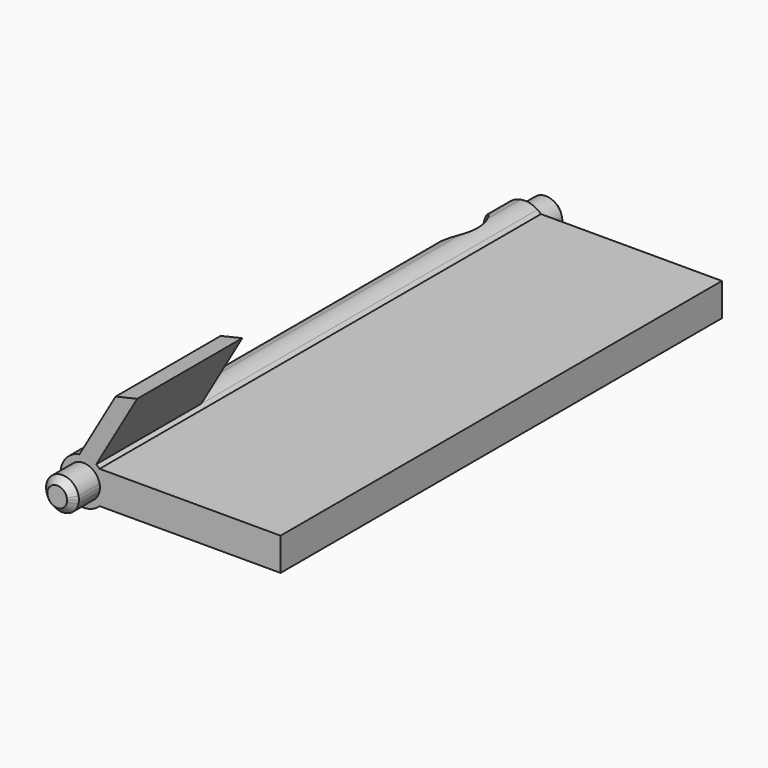
from build123d import *

# Parameters (mm, degrees)
F1_DEPTH      = 2.5
F2_SIZE       = 0.5
F3_DEPTH      = 42
F4_DEPTH      = 44.5
F5_SIZE       = 0.5
F7_DEPTH      = 10
F6_R          = 3
F8_DEPTH      = 10
F8_DEPTH_BACK = 10


with BuildPart() as f1:
    # F0 (on Front) → F1 (new body)
    with BuildSketch(Plane.XZ):
        with BuildLine():
            Line((1.2247448714, -0.25), (1.2247448714, 0.25))
            ThreePointArc((1.2247448714, 0.25), (-1.25, 0), (1.2247448714, -0.25))
        make_face()
        with BuildLine():
            ThreePointArc((1.25, 0), (1.2436701913, 0.1256362025), (1.2247448714, 0.25))
            Line((1.2247448714, 0.25), (1.2247448714, -0.25))
            ThreePointArc((1.2247448714, -0.25), (1.2436701913, -0.1256362025), (1.25, 0))
        make_face()
    extrude(amount=F1_DEPTH)

    # F2
    f2_edges = [f1.edges().sort_by_distance(p)[0] for p in [
        (-1.224745, -2.5, 0.25),
    ]]
    chamfer(f2_edges, length=F2_SIZE)

    # F0 (on Front) → F3 (join)
    with BuildSketch(Plane.XZ):
        with BuildLine():
            ThreePointArc((1.2247448714, 1.25), (1.6133510971, 0.6779367504), (1.75, 0))
            ThreePointArc((1.75, 0), (1.6133510971, -0.6779367504), (1.2247448714, -1.25))
            Line((1.2247448714, -1.25), (15, -1.25))
            Line((15, -1.25), (15, 1.25))
            Line((15, 1.25), (1.2247448714, 1.25))
        make_face()
        with BuildLine():
            Line((1.2247448714, 0.25), (1.2247448714, 1.25))
            ThreePointArc((1.2247448714, 1.25), (1.0990782163, 1.3618102197), (0.9632574662, 1.4610390323))
            ThreePointArc((0.9632574662, 1.4610390323), (0.3519402911, 1.7142456159), (-0.3096911027, 1.722379581))
            ThreePointArc((-0.3096911027, 1.722379581), (-1.5550212035, -0.8027509307), (1.2247448714, -1.25))
            Line((1.2247448714, -1.25), (1.2247448714, -0.25))
            ThreePointArc((1.2247448714, -0.25), (-1.25, 0), (1.2247448714, 0.25))
        make_face()
        with BuildLine():
            ThreePointArc((1.2247448714, -1.25), (1.6133510971, -0.6779367504), (1.75, 0))
            ThreePointArc((1.75, 0), (1.6133510971, 0.6779367504), (1.2247448714, 1.25))
            Line((1.2247448714, 1.25), (1.2247448714, 0.25))
            ThreePointArc((1.2247448714, 0.25), (1.2436701913, 0.1256362025), (1.25, 0))
            ThreePointArc((1.25, 0), (1.2436701913, -0.1256362025), (1.2247448714, -0.25))
            Line((1.2247448714, -0.25), (1.2247448714, -1.25))
        make_face()
    extrude(amount=-F3_DEPTH)

    # F0 (on Front) → F7 (join)
    with BuildSketch(Plane.XZ):
        with BuildLine():
            ThreePointArc((-0.3096911027, 1.722379581), (0.3519402911, 1.7142456159), (0.9632574662, 1.4610390323))
            Line((0.9632574662, 1.4610390323), (4.0880007002, 6.8732530742))
            Line((4.0880007002, 6.8732530742), (2.4424443742, 6.4892180562))
            Line((2.4424443742, 6.4892180562), (-0.3096911027, 1.722379581))
        make_face()
    extrude(amount=-F7_DEPTH)


with BuildPart() as f4:
    # F0 (on Front) → F4 (new body)
    with BuildSketch(Plane.XZ):
        with BuildLine():
            Line((1.2247448714, -0.25), (1.2247448714, 0.25))
            ThreePointArc((1.2247448714, 0.25), (-1.25, 0), (1.2247448714, -0.25))
        make_face()
        with BuildLine():
            ThreePointArc((1.25, 0), (1.2436701913, 0.1256362025), (1.2247448714, 0.25))
            Line((1.2247448714, 0.25), (1.2247448714, -0.25))
            ThreePointArc((1.2247448714, -0.25), (1.2436701913, -0.1256362025), (1.25, 0))
        make_face()
    extrude(amount=-F4_DEPTH)

    # F5
    f5_edges = [f4.edges().sort_by_distance(p)[0] for p in [
        (-1.224745, 44.5, 0.25),
    ]]
    chamfer(f5_edges, length=F5_SIZE)


with BuildPart() as f8_tool:
    # F6 (on face) → F8 (new body, two sides)
    with BuildSketch(Plane.XY.offset(1.25)) as f8_sk:
        with Locations((-3, 37.5)):
            Circle(F6_R)
        with Locations((-3, 5)):
            Circle(F6_R)
    extrude(amount=-F8_DEPTH)
    extrude(f8_sk.sketch, amount=F8_DEPTH_BACK)


with BuildPart() as f1_1:
    add(f1.part)

    # F8: cut by f8_tool
    add(f8_tool.part, mode=Mode.SUBTRACT)


with BuildPart() as f4_1:
    add(f4.part)

    # F8: cut by f8_tool
    add(f8_tool.part, mode=Mode.SUBTRACT)


solid = Compound([f1_1.part, f4_1.part])
